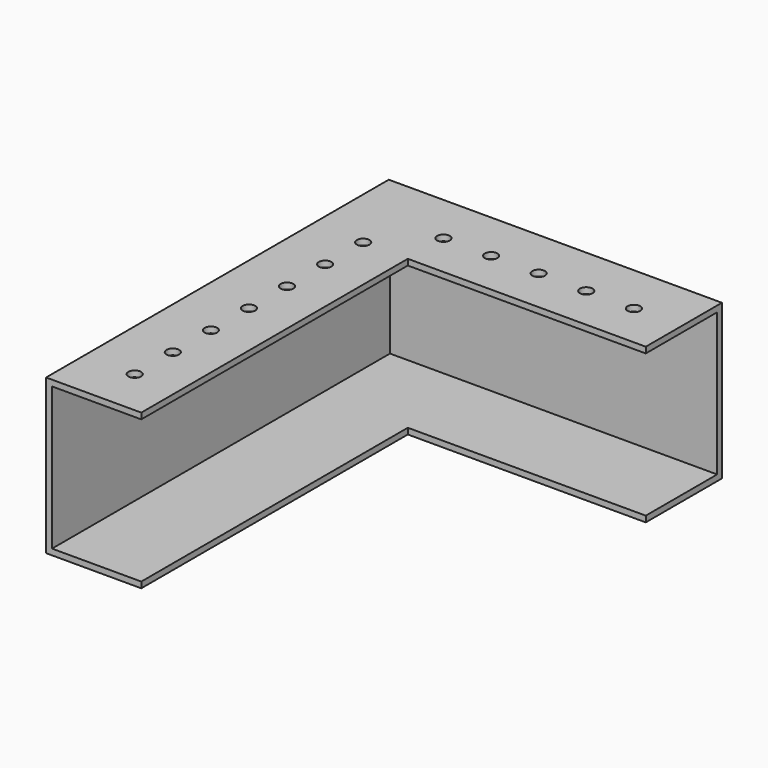
from build123d import *

# Parameters (mm, degrees)
F0_W     = 50.8
F0_H     = 177.8
F1_DEPTH = 3.175
F3_DEPTH = 76.2
F5_DEPTH = 3.175
F7_D     = 6.7564
F7_DEPTH = 29.21
F7_TIP   = 2.0298273432


with BuildPart() as f1:
    # F0 (on Top) → F1 (new body)
    with BuildSketch(Plane.XY):
        Polygon((0, 228.6), (0, 177.8), (50.8, 177.8), (177.8, 177.8), (177.8, 228.6), align=None)
        with Locations((25.4, 88.9)):
            Rectangle(F0_W, F0_H)
    extrude(amount=F1_DEPTH)

    # F2 (on face) → F3 (join)
    with BuildSketch(Plane.XY.offset(3.175)):
        Polygon((3.175, 0), (3.175, 225.425), (177.8, 225.425), (177.8, 228.6), (0, 228.6), (0, 0), align=None)
    extrude(amount=F3_DEPTH)

    # F4 (on face) → F5 (join)
    with BuildSketch(Plane.XY.offset(79.375)):
        Polygon((177.8, 228.6), (0, 228.6), (0, 0), (3.175, 0), (3.175, 225.425), (177.8, 225.425), align=None)
        Polygon((177.8, 177.8), (177.8, 225.425), (3.175, 225.425), (3.175, 0), (50.8, 0), (50.8, 177.8), align=None)
    extrude(amount=F5_DEPTH)

    # F7
    with Locations(Plane.XY.offset(82.55)):
        with Locations((26.9875, 25.4), (26.9875, 50.8), (26.9875, 76.2), (26.9875, 101.6), (26.9875, 127), (26.9875, 152.4), (26.9875, 177.8), (50.8, 201.6125), (76.2, 201.6125), (101.6, 201.6125), (127, 201.6125), (152.4, 201.6125)):
            Hole(F7_D / 2, depth=F7_DEPTH)
            with Locations((0, 0, -(F7_DEPTH + F7_TIP / 2))):  # 118° drill point
                Cone(0, F7_D / 2, F7_TIP, mode=Mode.SUBTRACT)


solid = f1.part
